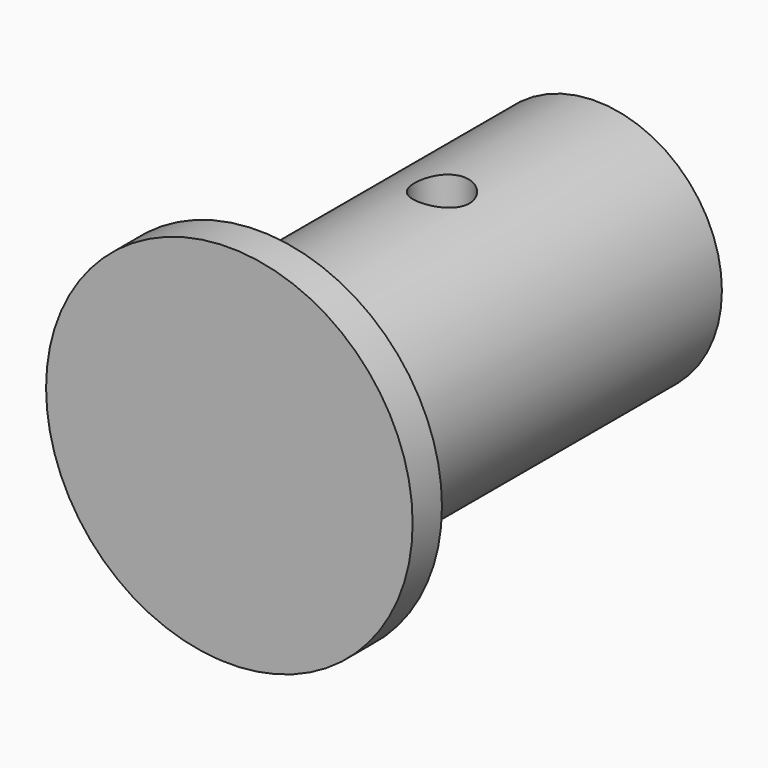
from build123d import *

# Parameters (mm, degrees)
SKETCH001_R = 3
HOLE_DEPTH  = 170.997689


with BuildPart() as part:
    # Sketch → Revolution (revolve)
    with BuildSketch(Plane.XY):
        Polygon((0, 0), (20, 0), (20, 4), (13.75, 4), (13.75, 50), (8.75, 50), (8.75, 6), (0, 6), align=None)
    revolve(axis=Axis((0, 0, 0), (0, 1, 0)))

    # Sketch001 → Hole (cut, through all)
    with BuildSketch(Plane.XY):
        with Locations((0, 29)):
            Circle(SKETCH001_R)
    hole = extrude(amount=-HOLE_DEPTH, mode=Mode.SUBTRACT)

    # Mirrored: Hole across XY
    add(hole.mirror(Plane.XY), mode=Mode.SUBTRACT)


solid = part.part
